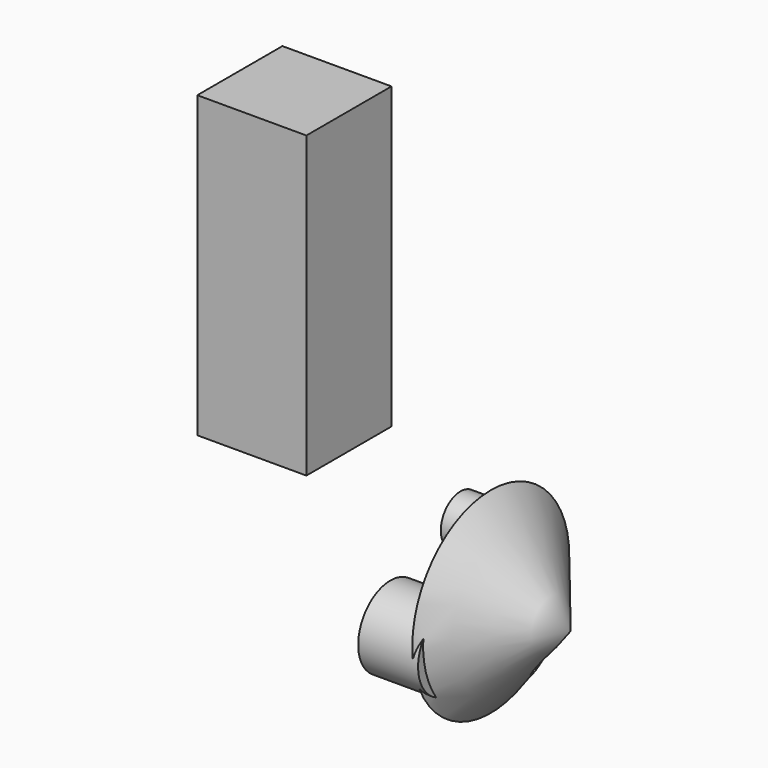
from build123d import *

# Parameters (mm, degrees)
F0_W     = 46.26578
F0_H     = 45.115725
F1_DEPTH = 127
F4_R     = 10.408583
F4_R_2   = 17.081722
F5_DEPTH = 25.4
F6_R     = 12.545066
F7_DEPTH = 25.4


with BuildPart() as f1:
    # F0 (on Top) → F1 (new body)
    with BuildSketch(Plane.XY):
        with Locations((-31.774823, -35.558864)):
            Rectangle(F0_W, F0_H)
    extrude(amount=F1_DEPTH)


with BuildPart() as f3:
    # F2 (on Front) → F3 (revolve)
    with BuildSketch(Plane.XZ):
        Polygon((56.966539, -60.355488), (23.077099, -18.719885), (23.077099, -60.355488), align=None)
    revolve(axis=Axis((40.021819, 0, -60.355488), (1, 0, 0)))

    # F4 (on Right) → F5 (join)
    with BuildSketch(Plane.YZ):
        with Locations((12.74889, -42.281121)):
            Circle(F4_R)
        with Locations((-24.368122, -67.133382)):
            Circle(F4_R_2)
    extrude(amount=F5_DEPTH)

    # F6 (on face) → F7 (cut)
    with BuildSketch(Plane(origin=(23.077099, 0, 0), x_dir=(0, -1, 0), z_dir=(-1, 0, 0))):
        with Locations((-13.024477, -76.190986)):
            Circle(F6_R)
    extrude(amount=-F7_DEPTH, mode=Mode.SUBTRACT)


solid = Compound([f1.part, f3.part])
